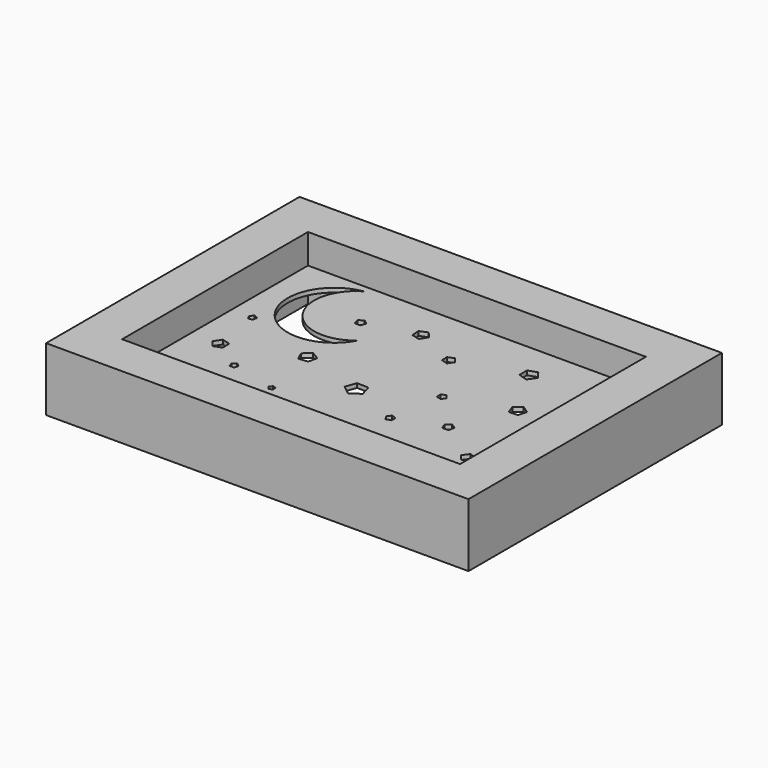
from build123d import *

# Parameters (mm, degrees)
F0_W     = 100
F0_H     = 75
F0_W_2   = 80
F0_H_2   = 55
F1_DEPTH = 7.5
F2_W     = 85
F2_H     = 60
F3_DEPTH = 0.5
F5_DEPTH = 4
F7_DEPTH = 4
F9_DEPTH = 2


with BuildPart() as f1:
    # F0 (on Top) → F1 (new body, symmetric)
    with BuildSketch(Plane.XY):
        Rectangle(F0_W, F0_H)
        Rectangle(F0_W_2, F0_H_2, mode=Mode.SUBTRACT)
    extrude(amount=F1_DEPTH, both=True)

    # F2 (on Top) → F3 (join, symmetric)
    with BuildSketch(Plane.XY):
        Rectangle(F2_W, F2_H)
    extrude(amount=F3_DEPTH, both=True)

    # F4 (on face) → F5 (cut, symmetric)
    with BuildSketch(Plane.XY.offset(0.5)):
        with BuildLine():
            ThreePointArc((-14.030779073, 9.8216604466), (-28.5453805779, 11.5757365705), (-25.4971957792, 25.8746529394))
            ThreePointArc((-25.4971957792, 25.8746529394), (-32.7417275782, 8.5783475559), (-14.030779073, 9.8216604466))
        make_face()
    extrude(amount=F5_DEPTH, both=True, mode=Mode.SUBTRACT)

    # F6 (on face) → F7 (cut, symmetric)
    with BuildSketch(Plane.XY.offset(0.5)):
        Polygon((-33.6119382633, -8.6941833252), (-31.7468941212, -8.0039128661), (-31.8270500041, -6.016845179), (-33.7416332062, -5.4790402695), (-34.8447548165, -7.1337262432), align=None)
        Polygon((-18.1541709736, -2.747406776), (-15.9509722143, -2.5300781708), (-15.4768381419, -0.3675534018), (-17.3870059292, 0.7516318018), (-19.0416886183, -0.7191984717), align=None)
        Polygon((-35.4328444953, 4.0322221243), (-34.4056151807, 4.1949180886), (-34.2429169225, 5.2221470399), (-35.1695931836, 5.6943134817), (-35.9050088677, 4.9588994397), align=None)
        Polygon((-2.2557034881, -7.8243230846), (0, -6.2835649587), (-0.7682973436, -3.6621430124), (-3.4988347035, -3.5827732766), (-4.4181022559, -6.1551420285), align=None)
        Polygon((25.5881788104, 4.9083078249), (27.6833120733, 4.9768951721), (28.2655134136, 6.9906799703), (26.5302003672, 8.1666800743), (24.8755165832, 6.8797033113), align=None)
        Polygon((19.9947226477, -7.7864271936), (21.4274991304, -7.6911230572), (21.7796117926, -6.2990210491), (20.5644529031, -5.5339588288), (19.4613307453, -6.4532263812), align=None)
        Polygon((11.3635717008, 2.5557714691), (11.4182028919, 1.3798037544), (12.5534966165, 1.068367096), (13.2005155343, 2.0518563705), (12.4651014924, 2.9711228281), align=None)
        Polygon((3.0226850162, 13.37136293), (4.5368093997, 12.9530541599), (5.4025348475, 14.2638075025), (4.4234582156, 15.4922063892), (2.9526301317, 14.9406453103), align=None)
        Polygon((19.9522579427, 20.7217878026), (17.8304072469, 19.9908427894), (17.8698893403, 17.7469684276), (20.0161413117, 17.0911228187), (21.3031158851, 18.9296623029), align=None)
        Polygon((-7.5485593761, 17.8178252237), (-5.6288838387, 17.3321217299), (-4.5737400011, 19.0077510251), (-5.8413007839, 20.529050376), (-7.6798402681, 19.7936357866), align=None)
        Polygon((-18.8396373222, 14.8832345039), (-17.5149254501, 14.8297967389), (-17.0547446343, 16.0731594196), (-18.0950491213, 16.8950375816), (-19.1981734687, 16.1596235397), align=None)
    extrude(amount=F7_DEPTH, both=True, mode=Mode.SUBTRACT)

    # F8 (on face) → F9 (cut)
    with BuildSketch(Plane.XY.offset(0.5)):
        Polygon((-26.2314461983, -12.9390526563), (-25.1804060423, -12.9390526563), (-24.8556167723, -11.9394540671), (-25.7059261203, -11.3216681638), (-26.5562354682, -11.9394540671), align=None)
        Polygon((-14.0670929104, -15.3417089426), (-14.0670929104, -14.4817656435), (-14.8849475887, -14.2160285498), (-15.3904095777, -14.911737293), (-14.8849475887, -15.6074460362), align=None)
        Polygon((32.2768948972, -14.9704083861), (32.2768948972, -13.2021199851), (30.5951526907, -12.6556888182), (29.5557788468, -14.0862641856), (30.5951526907, -15.516839553), align=None)
        Polygon((10.7780173421, -11.227759206), (10.7780173421, -10.0489047829), (9.6568601613, -9.6846187323), (8.9639469168, -10.6383319944), (9.6568601613, -11.5920452566), align=None)
    extrude(amount=-F9_DEPTH, mode=Mode.SUBTRACT)


solid = f1.part
